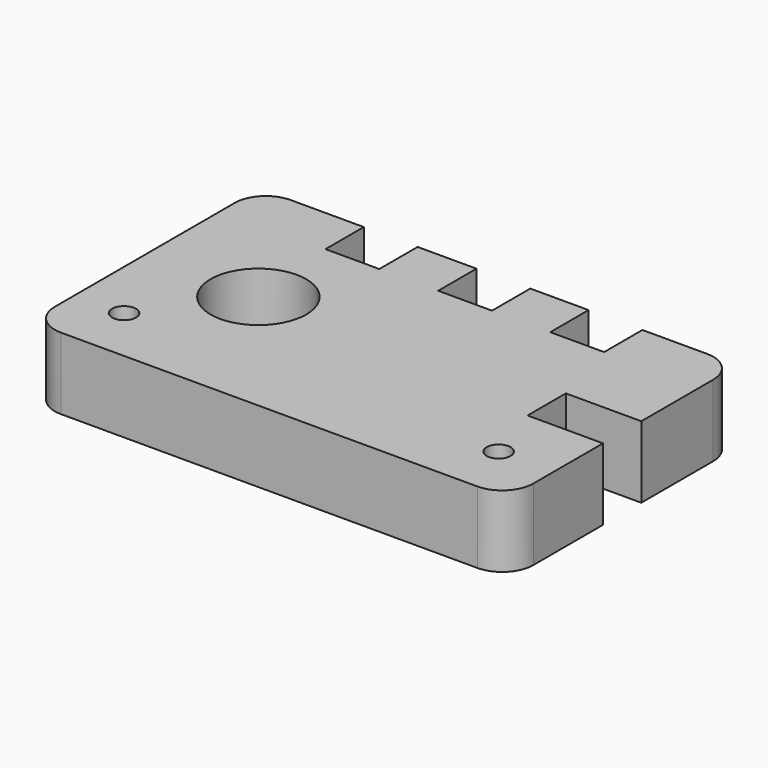
from build123d import *

# Parameters (mm, degrees)
F1_DEPTH = 19.05
F2_W     = 14.2875
F2_H     = 12.7
F2_R     = 12.7
F2_R_2   = 3.175
F2_W_2   = 20.0152
F3_DEPTH = 19.051


with BuildPart() as f1:
    # F0 (on Top) → F1 (new body)
    with BuildSketch(Plane.XY):
        with BuildLine():
            ThreePointArc((0, 8.255), (2.417834, 2.417834), (8.255, 0))
            Line((8.255, 0), (118.745, 0))
            ThreePointArc((118.745, 0), (124.582166, 2.417834), (127, 8.255))
            Line((127, 8.255), (127, 67.945))
            ThreePointArc((127, 67.945), (124.582166, 73.782166), (118.745, 76.2))
            Line((118.745, 76.2), (8.255, 76.2))
            ThreePointArc((8.255, 76.2), (2.417834, 73.782166), (0, 67.945))
            Line((0, 67.945), (0, 8.255))
        make_face()
    extrude(amount=F1_DEPTH)

    # F2 (on face) → F3 (cut, through all)
    with BuildSketch(Plane.XY.offset(19.05)):
        with Locations((94.45625, 69.85)):
            Rectangle(F2_W, F2_H)
        with Locations((64.70015, 69.85)):
            Rectangle(F2_W, F2_H)
        with Locations((34.79165, 69.85)):
            Rectangle(F2_W, F2_H)
        with Locations((30.1625, 38.1)):
            Circle(F2_R)
        with Locations((13.0048, 14.986)):
            Circle(F2_R_2)
        with Locations((112.4204, 14.986)):
            Circle(F2_R_2)
        with Locations((116.9924, 37.719)):
            Rectangle(F2_W_2, F2_H)
    extrude(amount=-F3_DEPTH, mode=Mode.SUBTRACT)


solid = f1.part
